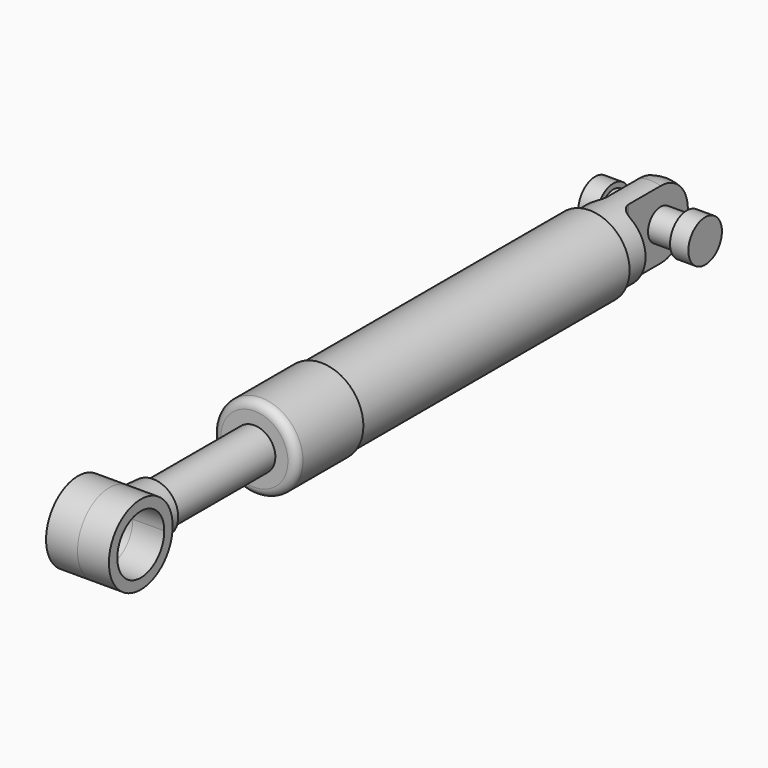
from build123d import *

# Parameters (mm, degrees)
F2_R      = 0.1016
F3_W      = 0.508
F3_H      = 1.27
F4_DEPTH  = 1.27
F5_R      = 0.127
F6_DEPTH  = 12.7
F8_DEPTH  = 0.381
F10_DEPTH = 12.7
F7_W      = 4.8387
F7_H      = 0.254
F12_R     = 0.254
F12_R_2   = 0.1905
F13_DEPTH = 0.66675
F14_DEPTH = 0.4445


with BuildPart() as f1:
    # F0 (on Right) → F1 (revolve)
    with BuildSketch(Plane.YZ):
        Polygon((2.9718, 0), (3.2131, 0), (3.2131, 0.4318), (3.2131, 0.4826), (-0.8509, 0.4826), (-0.8509, 0.508), (-1.8669, 0.508), (-1.8669, 0.254), (2.9718, 0.254), align=None)
        with BuildLine():
            Line((3.2131, 0.4318), (3.2131, 0))
            Line((3.2131, 0), (3.937, 0))
            ThreePointArc((3.937, 0), (3.9927961582, 0.1347038418), (4.1275, 0.1905))
            Line((4.1275, 0.1905), (4.1275, 0.4318))
            Line((4.1275, 0.4318), (3.2131, 0.4318))
        make_face()
        with BuildLine():
            ThreePointArc((4.1275, 0.1905), (3.9927961582, 0.1347038418), (3.937, 0))
            Line((3.937, 0), (4.1275, 0))
            Line((4.1275, 0), (4.1275, 0.1905))
        make_face()
        with BuildLine():
            Line((4.1275, 0.1905), (4.1275, 0))
            Line((4.1275, 0), (4.318, 0))
            ThreePointArc((4.318, 0), (4.2622038418, 0.1347038418), (4.1275, 0.1905))
        make_face()
        with BuildLine():
            ThreePointArc((4.5593, 0), (4.4328287081, 0.3053287081), (4.1275, 0.4318))
            Line((4.1275, 0.4318), (4.1275, 0.1905))
            ThreePointArc((4.1275, 0.1905), (4.2622038418, 0.1347038418), (4.318, 0))
            Line((4.318, 0), (4.5593, 0))
        make_face()
        with BuildLine():
            Line((3.2131, 0.4318), (3.2131, 0))
            Line((3.2131, 0), (3.937, 0))
            ThreePointArc((3.937, 0), (3.9927961582, 0.1347038418), (4.1275, 0.1905))
            Line((4.1275, 0.1905), (4.1275, 0.4318))
            Line((4.1275, 0.4318), (3.2131, 0.4318))
        make_face()
        with BuildLine():
            ThreePointArc((4.5593, 0), (4.4328287081, 0.3053287081), (4.1275, 0.4318))
            Line((4.1275, 0.4318), (4.1275, 0.1905))
            ThreePointArc((4.1275, 0.1905), (4.2622038418, 0.1347038418), (4.318, 0))
            Line((4.318, 0), (4.5593, 0))
        make_face()
    revolve(axis=Axis((0, 3.09245, 0), (0, 1, 0)))

    # F2
    f2_edges = [f1.edges().sort_by_distance(p)[0] for p in [
        (0, -1.8669, -0.508),
    ]]
    fillet(f2_edges, radius=F2_R)

    # F3 (on Top) → F4 (cut, symmetric)
    with BuildSketch(Plane.XY):
        with Locations((-0.381, 4.1529)):
            Rectangle(F3_W, F3_H)
        with Locations((0.381, 4.1529)):
            Rectangle(F3_W, F3_H)
    extrude(amount=F4_DEPTH, both=True, mode=Mode.SUBTRACT)

    # F5
    f5_edges = [f1.edges().sort_by_distance(p)[0] for p in [
        (-0.127, 3.5179, 0),
        (0.127, 3.5179, 0),
    ]]
    fillet(f5_edges, radius=F5_R)

    # F0 (on Right) → F6 (cut, symmetric)
    with BuildSketch(Plane.YZ):
        with BuildLine():
            Line((4.1275, 0.1905), (4.1275, 0))
            Line((4.1275, 0), (4.318, 0))
            ThreePointArc((4.318, 0), (4.2622038418, 0.1347038418), (4.1275, 0.1905))
        make_face()
        with BuildLine():
            ThreePointArc((4.1275, 0.1905), (3.9927961582, 0.1347038418), (3.937, 0))
            Line((3.937, 0), (4.1275, 0))
            Line((4.1275, 0), (4.1275, 0.1905))
        make_face()
        with BuildLine():
            Line((4.1275, 0), (3.937, 0))
            ThreePointArc((3.937, 0), (4.1275, -0.1905), (4.318, 0))
            Line((4.318, 0), (4.1275, 0))
        make_face()
    extrude(amount=F6_DEPTH, both=True, mode=Mode.SUBTRACT)


with BuildPart() as f8:
    # F7 (on Right) → F8 (new body, symmetric)
    with BuildSketch(Plane.YZ):
        with BuildLine():
            ThreePointArc((-4.0362444524, 0.3545151472), (-4.3250758824, -0.2414347606), (-3.7084, 0))
            ThreePointArc((-3.7084, 0), (-3.8029241176, 0.2414347606), (-4.0362444524, 0.3545151472))
        make_face()
        with BuildLine():
            Line((-3.7084, 0), (-3.5814, 0))
            ThreePointArc((-3.5814, 0), (-3.6149595808, 0.1768204227), (-3.7109709154, 0.3290489712))
            Line((-3.7109709154, 0.3290489712), (-4.0362444524, 0.3545151472))
            ThreePointArc((-4.0362444524, 0.3545151472), (-3.8029241176, 0.2414347606), (-3.7084, 0))
        make_face()
        with BuildLine():
            ThreePointArc((-3.7109709154, 0.3290489712), (-4.5130404192, -0.1768204227), (-3.5814, 0))
            Line((-3.5814, 0), (-3.7084, 0))
            ThreePointArc((-3.7084, 0), (-4.3250758824, -0.2414347606), (-4.0362444524, 0.3545151472))
            Line((-4.0362444524, 0.3545151472), (-3.7109709154, 0.3290489712))
        make_face()
    extrude(amount=F8_DEPTH, both=True)

    # F7 (on Right) → F9 (revolve)
    with BuildSketch(Plane.YZ):
        with BuildLine():
            ThreePointArc((-3.7109709154, 0.3290489712), (-3.6149595808, 0.1768204227), (-3.5814, 0))
            Line((-3.5814, 0), (-3.4012444524, 0))
            Line((-3.4012444524, 0), (-3.4012444524, 0.254))
            Line((-3.4012444524, 0.254), (-3.4012444524, 0.3048))
            Line((-3.4012444524, 0.3048), (-3.7109709154, 0.3290489712))
        make_face()
        with BuildLine():
            Line((-3.7084, 0), (-3.5814, 0))
            ThreePointArc((-3.5814, 0), (-3.6149595808, 0.1768204227), (-3.7109709154, 0.3290489712))
            Line((-3.7109709154, 0.3290489712), (-4.0362444524, 0.3545151472))
            ThreePointArc((-4.0362444524, 0.3545151472), (-3.8029241176, 0.2414347606), (-3.7084, 0))
        make_face()
    revolve(axis=Axis((0, -3.5548222262, 0), (0, -1, 0)))

    # F7 (on Right) → F10 (cut, symmetric)
    with BuildSketch(Plane.YZ):
        with BuildLine():
            ThreePointArc((-4.0362444524, 0.3545151472), (-4.3250758824, -0.2414347606), (-3.7084, 0))
            ThreePointArc((-3.7084, 0), (-3.8029241176, 0.2414347606), (-4.0362444524, 0.3545151472))
        make_face()
    extrude(amount=F10_DEPTH, both=True, mode=Mode.SUBTRACT)


with BuildPart() as f11:
    # F7 (on Right) → F11 (revolve)
    with BuildSketch(Plane.YZ):
        with Locations((-0.9818944524, 0.127)):
            Rectangle(F7_W, F7_H)
    revolve(axis=Axis((0, -0.9818944524, 0), (0, -1, 0)))


with BuildPart() as f13:
    # F12 (on Right) → F13 (new body, symmetric)
    with BuildSketch(Plane.YZ):
        with Locations((4.1275, 0)):
            Circle(F12_R)
        with Locations((4.1275, 0)):
            Circle(F12_R_2, mode=Mode.SUBTRACT)
        with Locations((4.1275, 0)):
            Circle(F12_R_2)
    extrude(amount=F13_DEPTH, both=True)

    # F12 (on Right) → F14 (cut, symmetric)
    with BuildSketch(Plane.YZ):
        with Locations((4.1275, 0)):
            Circle(F12_R)
        with Locations((4.1275, 0)):
            Circle(F12_R_2, mode=Mode.SUBTRACT)
    extrude(amount=F14_DEPTH, both=True, mode=Mode.SUBTRACT)


solid = Compound([f1.part, f8.part, f11.part, f13.part])
